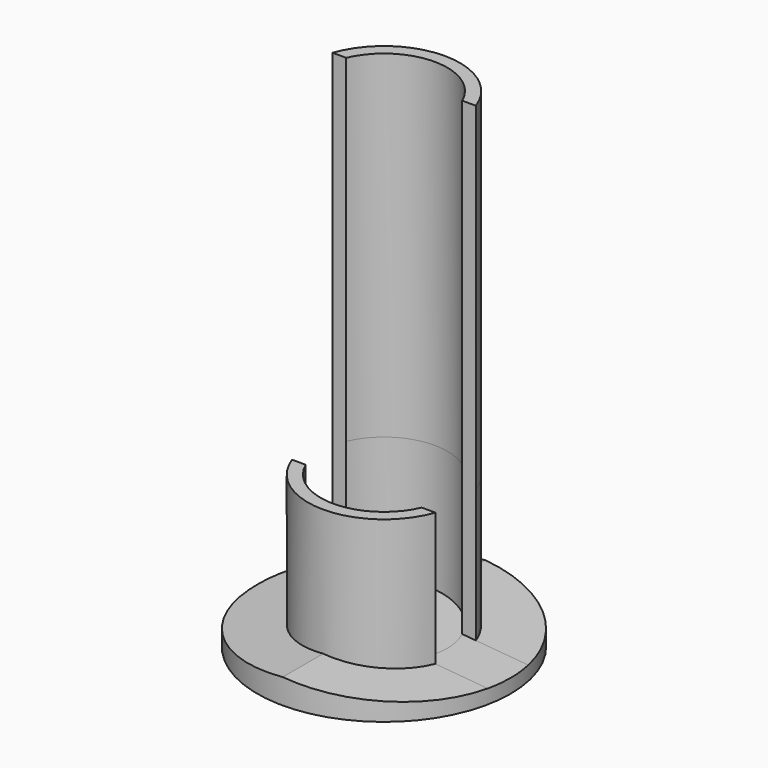
from build123d import *

# Parameters (mm, degrees)
F0_R     = 15
F1_DEPTH = 3
F3_DEPTH = 20
F4_R     = 9
F4_R_2   = 7.5
F5_DEPTH = 18
F7_DEPTH = 3
F9_DEPTH = 40


with BuildPart() as f1:
    # F0 (on Top) → F1 (new body)
    with BuildSketch(Plane.XY):
        Circle(F0_R)
    extrude(amount=F1_DEPTH)

    # F2 (on Front) → F3 (cut, symmetric)
    with BuildSketch(Plane.XZ):
        Polygon((-16.27984, 1.543784), (0, 2.968085), (16.030641, 1.565586), (16.030641, 3.755485), (-16.27984, 3.755485), align=None)
    extrude(amount=F3_DEPTH, both=True, mode=Mode.SUBTRACT)

    # F4 (on Top) → F5 (join)
    with BuildSketch(Plane.XY):
        Circle(F4_R)
        Circle(F4_R_2, mode=Mode.SUBTRACT)
    extrude(amount=F5_DEPTH)

    # F6 (on Front) → F7 (cut, symmetric)
    with BuildSketch(Plane.XZ):
        Polygon((16.263659, 20.495596), (-16.880802, 20.495596), (-16.596312, 1.516096), (0, 2.968085), (16.263659, 1.545199), align=None)
    extrude(amount=F7_DEPTH, both=True, mode=Mode.SUBTRACT)

    # F8 (on face) → F9 (join)
    with BuildSketch(Plane.XY.offset(18)):
        with BuildLine():
            Line((6.873864, 3), (8.485281, 3))
            ThreePointArc((8.485281, 3), (0, 9), (-8.485281, 3))
            Line((-8.485281, 3), (-6.873864, 3))
            ThreePointArc((-6.873864, 3), (0, 7.5), (6.873864, 3))
        make_face()
    extrude(amount=F9_DEPTH)


solid = f1.part
